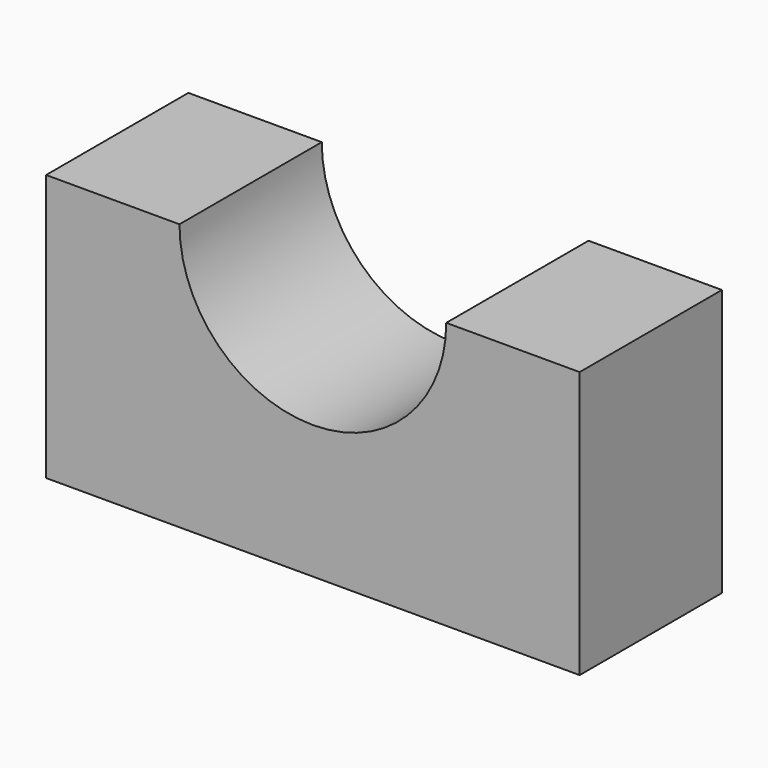
from build123d import *

# Parameters (mm, degrees)
F1_DEPTH = 38.1
F3_DEPTH = 25.4


with BuildPart() as f1:
    # F0 (on Top) → F1 (new body)
    with BuildSketch(Plane.XY):
        Polygon((-38.1, 12.7), (-38.1, 0), (-38.1, -12.7), (0, -12.7), (38.1, -12.7), (38.1, 0), (38.1, 12.7), (0, 12.7), align=None)
    extrude(amount=F1_DEPTH)

    # F2 (on face) → F3 (cut)
    with BuildSketch(Plane.XZ.offset(12.7)):
        with BuildLine():
            Line((19.05, 38.1), (-19.05, 38.1))
            ThreePointArc((-19.05, 38.1), (0, 19.05), (19.05, 38.1))
        make_face()
    extrude(amount=-F3_DEPTH, mode=Mode.SUBTRACT)


solid = f1.part
